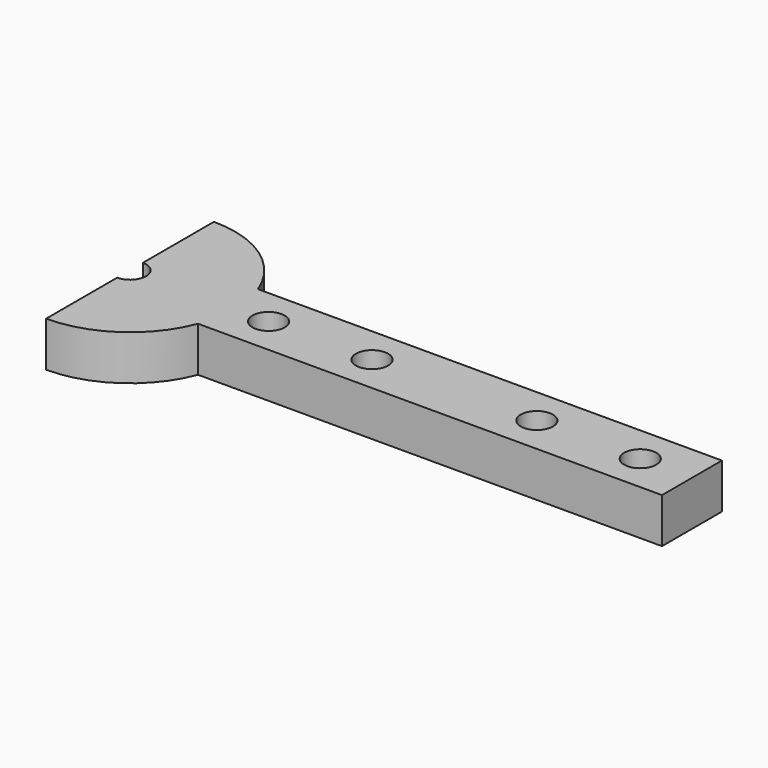
from build123d import *

# Parameters (mm, degrees)
SKETCH_R     = 2.15
PAD_DEPTH    = 6
POCKET_DEPTH = 3


with BuildPart() as body:
    # Sketch → Pad (new body)
    with BuildSketch(Plane.XY):
        with BuildLine():
            Line((-13.076697, 5), (-75, 5))
            Line((-75, 5), (-75, -5))
            Line((-75, -5), (-13.076697, -5))
            ThreePointArc((-13.076697, -5), (-7.937254, -11.532563), (0, -14))
            Line((0, -2.15), (0, -14))
            ThreePointArc((0, 2.15), (-2.15, 0), (0, -2.15))
            Line((0, 14), (0, 2.15))
            ThreePointArc((0, 14), (-7.937254, 11.532563), (-13.076697, 5))
        make_face()
        with Locations((-68.1, 0)):
            Circle(SKETCH_R, mode=Mode.SUBTRACT)
        with Locations((-54.3, 0)):
            Circle(SKETCH_R, mode=Mode.SUBTRACT)
        with Locations((-32.3, 0)):
            Circle(SKETCH_R, mode=Mode.SUBTRACT)
        with Locations((-18.5, 0)):
            Circle(SKETCH_R, mode=Mode.SUBTRACT)
    extrude(amount=PAD_DEPTH)

    # Sketch001 → Pocket (cut)
    with BuildSketch(Plane.XY):
        Polygon((0, 7), (-6.062178, 3.5), (-6.062178, -3.5), (0, -7), align=None)
    extrude(amount=POCKET_DEPTH, mode=Mode.SUBTRACT)


with BuildPart() as part_mirroring:
    # Part__Mirroring: instance of Body
    add(body.part.mirror(Plane(origin=(0, 0, 0), x_dir=(0, -1, 0), z_dir=(1, 0, 0))))


solid = part_mirroring.part
